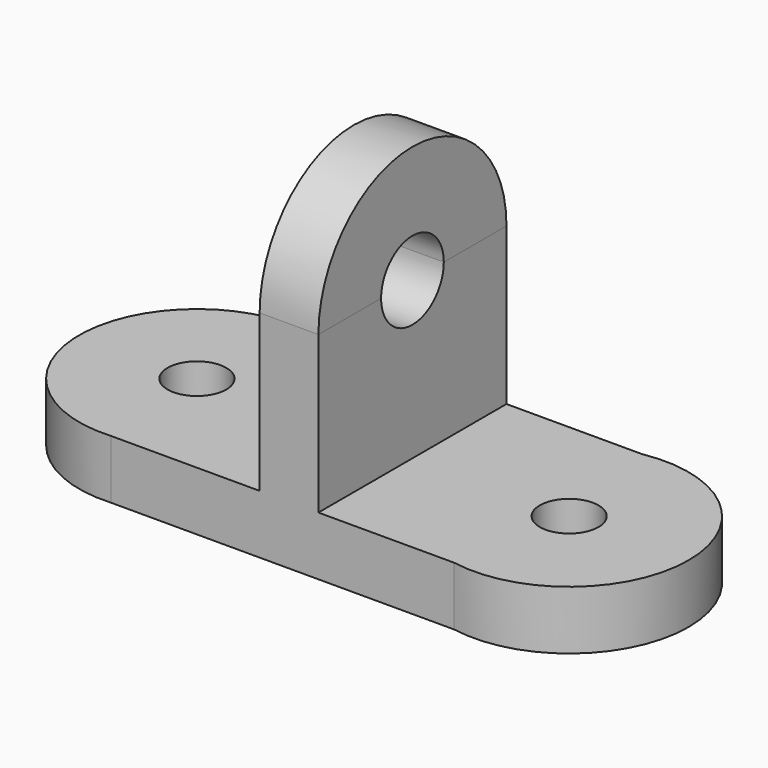
from build123d import *

# Parameters (mm, degrees)
F0_R     = 4.7625
F1_DEPTH = 9.525
F3_DEPTH = 25.4
F5_DEPTH = 9.525
F7_D     = 12.7
F7_2_D   = 12.7


with BuildPart() as f1:
    # F0 (on Top) → F1 (new body)
    with BuildSketch(Plane.XY):
        with BuildLine():
            Line((4.990128, 19.05), (-50.640772, 19.05))
            ThreePointArc((-50.640772, 19.05), (-71.006286, 0), (-50.640772, -19.05))
            Line((-50.640772, -19.05), (4.990128, -19.05))
            ThreePointArc((4.990128, -19.05), (27.76595, 0), (4.990128, 19.05))
        make_face()
        with Locations((-51.913798, 0)):
            Circle(F0_R, mode=Mode.SUBTRACT)
        with Locations((8.411202, 0)):
            Circle(F0_R, mode=Mode.SUBTRACT)
    extrude(amount=F1_DEPTH)

    # F2 (on face) → F3 (join)
    with BuildSketch(Plane.XY.offset(9.525)):
        Polygon((-26.513798, 19.05), (-26.513798, 0), (-26.513798, -19.05), (-16.988798, -19.05), (-16.988798, 0), (-16.988798, 19.05), align=None)
    extrude(amount=F3_DEPTH)

    # F7 (through all)
    with Locations(Plane(origin=(-26.513798, 0, 0), x_dir=(0, -1, 0), z_dir=(-1, 0, 0))):
        with Locations((0, 34.925)):
            Hole(F7_D / 2)


with BuildPart() as f5:
    # F4 (on face) → F5 (new body)
    with BuildSketch(Plane.YZ.offset(-16.988798)):
        with BuildLine():
            Line((-19.05, 34.925), (19.05, 34.925))
            ThreePointArc((19.05, 34.925), (0, 53.975), (-19.05, 34.925))
        make_face()
    extrude(amount=-F5_DEPTH)

    # F7#2 (through all)
    with Locations(Plane(origin=(-26.513798, 0, 0), x_dir=(0, -1, 0), z_dir=(-1, 0, 0))):
        with Locations((0, 34.925)):
            Hole(F7_2_D / 2)


solid = Compound([f1.part, f5.part])
